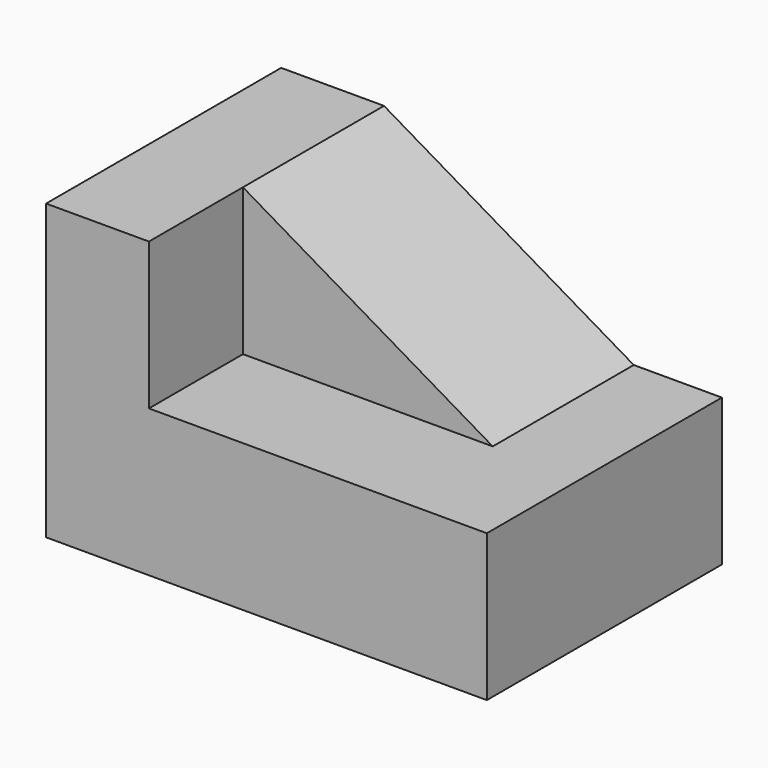
from build123d import *

# Parameters (mm, degrees)
F0_W     = 150
F0_H     = 100
F1_DEPTH = 50
F2_W     = 35
F2_H     = 100
F3_DEPTH = 50
F4_W     = 85
F4_H     = 60
F5_DEPTH = 50
F7_DEPTH = 60


with BuildPart() as f1:
    # F0 (on Top) → F1 (new body)
    with BuildSketch(Plane.XY):
        with Locations((15.672885, -3.26121)):
            Rectangle(F0_W, F0_H)
    extrude(amount=F1_DEPTH)

    # F2 (on face) → F3 (join)
    with BuildSketch(Plane.XY.offset(50)):
        with Locations((-41.827115, -3.26121)):
            Rectangle(F2_W, F2_H)
    extrude(amount=F3_DEPTH)

    # F4 (on face) → F5 (join)
    with BuildSketch(Plane.XY.offset(50)):
        with Locations((18.172885, 16.73879)):
            Rectangle(F4_W, F4_H)
    extrude(amount=F5_DEPTH)

    # F6 (on face) → F7 (cut)
    with BuildSketch(Plane.XZ.offset(13.26121)):
        Polygon((60.672885, 100), (-24.327115, 100), (60.672885, 50), align=None)
    extrude(amount=-F7_DEPTH, mode=Mode.SUBTRACT)


solid = f1.part
